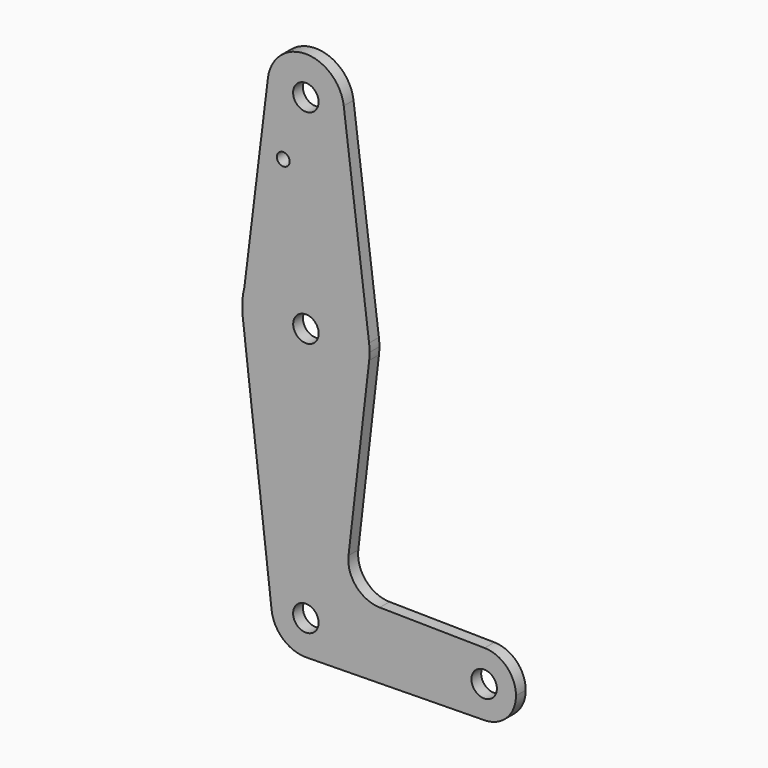
from build123d import *

# Parameters (mm, degrees)
F0_R     = 3.175
F0_R_2   = 1.5875
F1_DEPTH = 3.048


with BuildPart() as f1:
    # F0 (on Front) → F1 (new body)
    with BuildSketch(Plane.XZ):
        with BuildLine():
            Line((-39.872363, 5.642511), (-40.393674, 1.391583))
            ThreePointArc((-40.393674, 1.391583), (-25.329494, -14.251993), (-8.750471, -0.223914))
            ThreePointArc((-8.750471, -0.223914), (-8.671445, 0.687703), (-8.645073, 1.602358))
            ThreePointArc((-8.645073, 1.602358), (-8.676443, 2.599858), (-8.770428, 3.593415))
            ThreePointArc((-8.770428, 3.593415), (-23.476439, 17.443016), (-39.872363, 5.642511))
        make_face()
        with Locations((-24.520073, 1.602358)):
            Circle(F0_R, mode=Mode.SUBTRACT)
        with BuildLine():
            ThreePointArc((-39.872363, 5.642511), (-40.277029, 3.534708), (-40.393674, 1.391583))
            Line((-40.393674, 1.391583), (-39.872363, 5.642511))
        make_face()
        with BuildLine():
            ThreePointArc((-8.750471, -0.223914), (-25.329494, -14.251993), (-40.393674, 1.391583))
            Line((-40.393674, 1.391583), (-40.375196, 0))
            Line((-40.375196, 0), (-33.078623, -62.887975))
            ThreePointArc((-33.078623, -62.887975), (-25.039092, -53.319184), (-15.950314, -61.897642))
            ThreePointArc((-15.950314, -61.897642), (-18.378295, -67.883554), (-24.290135, -70.486702))
            Line((-24.290135, -70.486702), (20.023751, -69.834282))
            ThreePointArc((20.023751, -69.834282), (11.969402, -61.897642), (20.023751, -53.961002))
            Line((20.023751, -53.961002), (-6.122254, -53.576062))
            ThreePointArc((-6.122254, -53.576062), (-11.980182, -50.87129), (-13.902635, -44.712127))
            Line((-13.902635, -44.712127), (-8.750471, -0.223914))
        make_face()
        with BuildLine():
            Line((-33.995798, 53.561768), (-39.872363, 5.642511))
            ThreePointArc((-39.872363, 5.642511), (-23.476439, 17.443016), (-8.770428, 3.593415))
            Line((-8.770428, 3.593415), (-15.091838, 53.596992))
            ThreePointArc((-15.091838, 53.596992), (-15.035447, 53.000858), (-15.016625, 52.402358))
            ThreePointArc((-15.016625, 52.402358), (-25.12241, 42.895081), (-33.995798, 53.561768))
        make_face()
        with Locations((-30.164933, 36.977328)):
            Circle(F0_R_2, mode=Mode.SUBTRACT)
        with BuildLine():
            ThreePointArc((-15.091838, 53.596992), (-24.559373, 61.927342), (-33.995798, 53.561768))
            ThreePointArc((-33.995798, 53.561768), (-25.12241, 42.895081), (-15.016625, 52.402358))
            ThreePointArc((-15.016625, 52.402358), (-15.035447, 53.000858), (-15.091838, 53.596992))
        make_face()
        with Locations((-24.541625, 52.402358)):
            Circle(F0_R, mode=Mode.SUBTRACT)
        with BuildLine():
            ThreePointArc((-15.950314, -61.897642), (-25.039092, -53.319184), (-33.078623, -62.887975))
            ThreePointArc((-33.078623, -62.887975), (-30.258263, -68.314248), (-24.543098, -70.490426))
            Line((-24.543098, -70.490426), (-24.290135, -70.486702))
            ThreePointArc((-24.290135, -70.486702), (-18.378295, -67.883554), (-15.950314, -61.897642))
        make_face()
        with Locations((-24.543098, -61.897642)):
            Circle(F0_R, mode=Mode.SUBTRACT)
        with BuildLine():
            Line((-24.290135, -70.486702), (-24.543098, -70.490426))
            ThreePointArc((-24.543098, -70.490426), (-24.416603, -70.489495), (-24.290135, -70.486702))
        make_face()
        with BuildLine():
            ThreePointArc((27.844402, -61.897642), (25.560723, -56.326447), (20.023751, -53.961002))
            ThreePointArc((20.023751, -53.961002), (11.969402, -61.897642), (20.023751, -69.834282))
            ThreePointArc((20.023751, -69.834282), (25.560723, -67.468837), (27.844402, -61.897642))
        make_face()
        with Locations((19.906902, -61.897642)):
            Circle(F0_R, mode=Mode.SUBTRACT)
    extrude(amount=F1_DEPTH)


solid = f1.part
